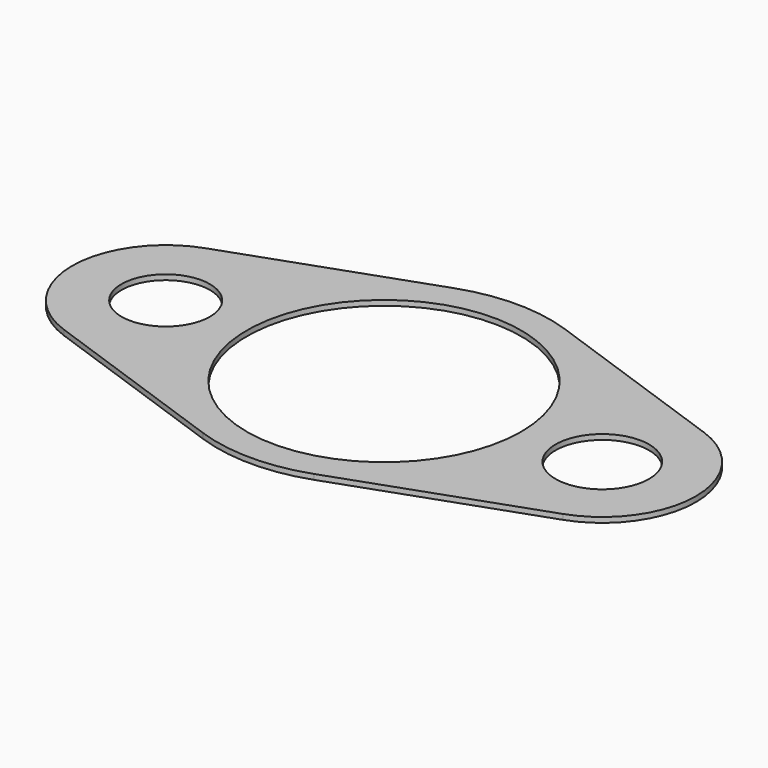
from build123d import *

# Parameters (mm, degrees)
F1_R     = 4.25
F1_R_2   = 13.2
F1_R_3   = 4.5
F2_DEPTH = 0.5


with BuildPart() as f2:
    # F1 (on face) → F2 (new body)
    with BuildSketch(Plane.XY):
        with BuildLine():
            Line((-24, -8.485281), (-5.333333, -15.084945))
            ThreePointArc((-5.333333, -15.084945), (0, -16), (5.333333, -15.084945))
            Line((5.333333, -15.084945), (24, -8.485281))
            ThreePointArc((24, -8.485281), (30, 0), (24, 8.485281))
            Line((24, 8.485281), (5.333333, 15.084945))
            ThreePointArc((5.333333, 15.084945), (0, 16), (-5.333333, 15.084945))
            Line((-5.333333, 15.084945), (-24, 8.485281))
            ThreePointArc((-24, 8.485281), (-30, 0), (-24, -8.485281))
        make_face()
        with Locations((-21, 0)):
            Circle(F1_R, mode=Mode.SUBTRACT)
        Circle(F1_R_2, mode=Mode.SUBTRACT)
        with Locations((21, 0)):
            Circle(F1_R_3, mode=Mode.SUBTRACT)
    extrude(amount=F2_DEPTH)


solid = f2.part
